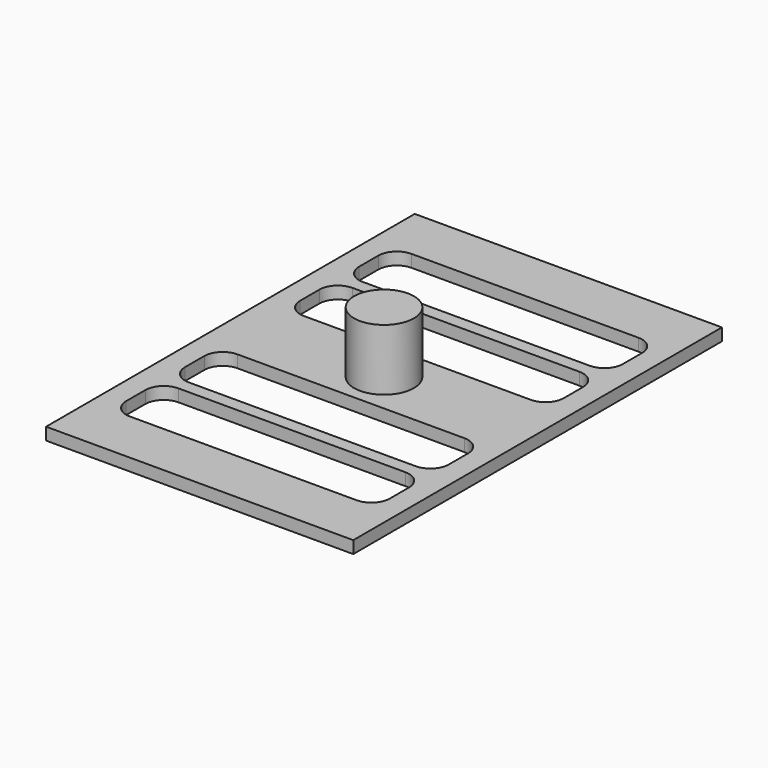
from build123d import *

# Parameters (mm, degrees)
F0_W     = 50
F0_H     = 75
F1_DEPTH = 2
F2_R     = 4.875
F3_DEPTH = 10
F5_DEPTH = 25


with BuildPart() as f1:
    # F0 (on Top) → F1 (new body)
    with BuildSketch(Plane.XY):
        Rectangle(F0_W, F0_H)
    extrude(amount=F1_DEPTH)

    # F2 (on face) → F3 (join)
    with BuildSketch(Plane.XY.offset(2)):
        Circle(F2_R)
    extrude(amount=F3_DEPTH)

    # F4 (on face) → F5 (cut)
    with BuildSketch(Plane.XY.offset(2)):
        with BuildLine():
            ThreePointArc((18.473266, -16.651813), (20.594587, -15.773133), (21.473266, -13.651813))
            Line((21.473266, -13.651813), (21.473266, -9.756987))
            ThreePointArc((21.473266, -9.756987), (20.594587, -7.635667), (18.473266, -6.756987))
            Line((18.473266, -6.756987), (-18.444779, -6.756987))
            ThreePointArc((-18.444779, -6.756987), (-20.566099, -7.635667), (-21.444779, -9.756987))
            Line((-21.444779, -9.756987), (-21.444779, -13.651813))
            ThreePointArc((-21.444779, -13.651813), (-20.566099, -15.773133), (-18.444779, -16.651813))
            Line((-18.444779, -16.651813), (18.473266, -16.651813))
        make_face()
        with BuildLine():
            Line((18.473266, 16.651813), (-18.444779, 16.651813))
            ThreePointArc((-18.444779, 16.651813), (-20.566099, 15.773133), (-21.444779, 13.651813))
            Line((-21.444779, 13.651813), (-21.444779, 9.756987))
            ThreePointArc((-21.444779, 9.756987), (-20.566099, 7.635667), (-18.444779, 6.756987))
            Line((-18.444779, 6.756987), (18.473266, 6.756987))
            ThreePointArc((18.473266, 6.756987), (20.594587, 7.635667), (21.473266, 9.756987))
            Line((21.473266, 9.756987), (21.473266, 13.651813))
            ThreePointArc((21.473266, 13.651813), (20.594587, 15.773133), (18.473266, 16.651813))
        make_face()
        with BuildLine():
            Line((18.473266, -18.756987), (-18.444779, -18.756987))
            ThreePointArc((-18.444779, -18.756987), (-20.566099, -19.635667), (-21.444779, -21.756987))
            Line((-21.444779, -21.756987), (-21.444779, -25.651813))
            ThreePointArc((-21.444779, -25.651813), (-20.566099, -27.773133), (-18.444779, -28.651813))
            Line((-18.444779, -28.651813), (18.473266, -28.651813))
            ThreePointArc((18.473266, -28.651813), (20.594587, -27.773133), (21.473266, -25.651813))
            Line((21.473266, -25.651813), (21.473266, -21.756987))
            ThreePointArc((21.473266, -21.756987), (20.594587, -19.635667), (18.473266, -18.756987))
        make_face()
        with BuildLine():
            Line((21.473266, 21.756987), (21.473266, 25.651813))
            ThreePointArc((21.473266, 25.651813), (20.594587, 27.773133), (18.473266, 28.651813))
            Line((18.473266, 28.651813), (-18.444779, 28.651813))
            ThreePointArc((-18.444779, 28.651813), (-20.566099, 27.773133), (-21.444779, 25.651813))
            Line((-21.444779, 25.651813), (-21.444779, 21.756987))
            ThreePointArc((-21.444779, 21.756987), (-20.566099, 19.635667), (-18.444779, 18.756987))
            Line((-18.444779, 18.756987), (18.473266, 18.756987))
            ThreePointArc((18.473266, 18.756987), (20.594587, 19.635667), (21.473266, 21.756987))
        make_face()
    extrude(amount=-F5_DEPTH, mode=Mode.SUBTRACT)


solid = f1.part
